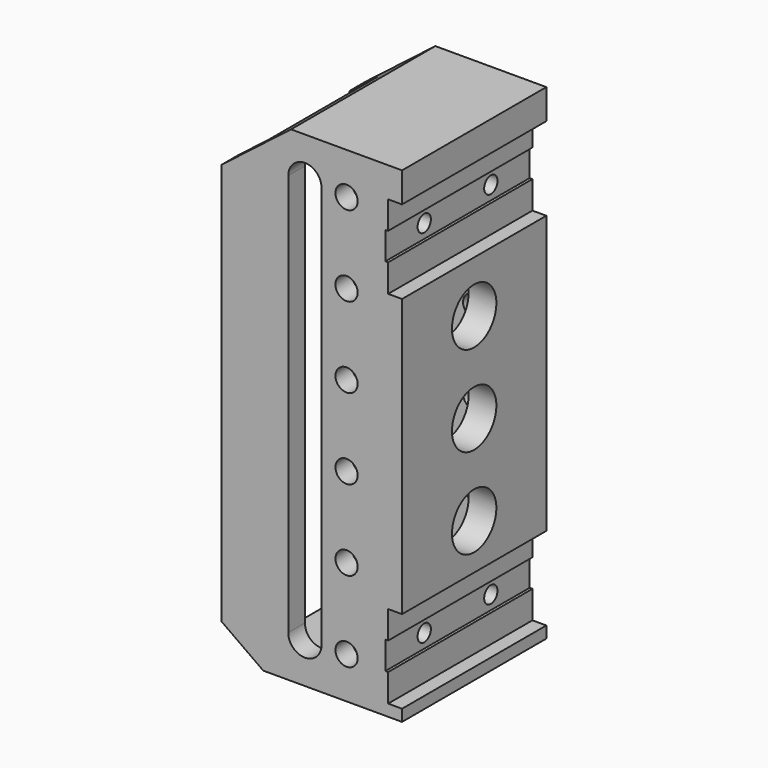
from build123d import *

# Parameters (mm, degrees)
PAD_DEPTH              = 65
POCKET_DEPTH           = 65.001
SKETCH002_R            = 4
POCKET001_DEPTH        = 65.001
LINEARPATTERN_COUNT    = 6
LINEARPATTERN_PITCH    = 29
SKETCH003_W            = 160
SKETCH003_H            = 50
POCKET002_DEPTH        = 55
SKETCH004_W            = 30
SKETCH004_H            = 65
POCKET003_DEPTH        = 5
SKETCH005_R            = 3
POCKET004_DEPTH        = 12.172573
SKETCH035_R            = 10
POCKET023_DEPTH        = 65.001
LINEARPATTERN001_COUNT = 3
LINEARPATTERN001_PITCH = 32.5
SKETCH076_W            = 10
SKETCH076_H            = 65
POCKET047_DEPTH        = 1


with BuildPart() as part:
    # Sketch → Pad (new body)
    with BuildSketch(Plane.XZ):
        Polygon((-2.003095, 92.602939), (37.996905, 92.602939), (37.996905, -82.397061), (-12.003095, -82.397061), (-27.003095, -71.740207), (-27.003095, 73.259793), align=None)
    extrude(amount=PAD_DEPTH)

    # Sketch001 (on Face8 of Pad) → Pocket (cut, through all)
    with BuildSketch(Plane.XZ.offset(65)):
        with BuildLine():
            ThreePointArc((8.996905, 77.602939), (2.996905, 83.602939), (-3.003095, 77.602939))
            Line((-3.003095, 77.602939), (-3.003095, -67.397061))
            ThreePointArc((-3.003095, -67.397061), (2.996905, -73.397061), (8.996905, -67.397061))
            Line((8.996905, 77.602939), (8.996905, -67.397061))
        make_face()
    extrude(amount=-POCKET_DEPTH, mode=Mode.SUBTRACT)

    # Sketch002 (on Face5 of Pocket) → Pocket001 (cut, through all)
    with BuildSketch(Plane.XZ.offset(65)):
        with Locations((17.996905, 77.602939)):
            Circle(SKETCH002_R)
    pocket001 = extrude(amount=-POCKET001_DEPTH, mode=Mode.SUBTRACT)

    # LinearPattern: Pocket001 ×6
    with Locations(*[(0, 0, -i * LINEARPATTERN_PITCH) for i in range(1, LINEARPATTERN_COUNT)]):
        add(pocket001, mode=Mode.SUBTRACT)

    # Sketch003 (on Face1 of LinearPattern) → Pocket002 (cut)
    with BuildSketch(Plane(origin=(-27.003095, 0, 0), x_dir=(0, 0, -1), z_dir=(-1, 0, 0))):
        with Locations((-1.789118, 32.5)):
            Rectangle(SKETCH003_W, SKETCH003_H)
    extrude(amount=-POCKET002_DEPTH, mode=Mode.SUBTRACT)

    # Sketch004 (on Face8 of Pocket002) → Pocket003 (cut)
    with BuildSketch(Plane(origin=(37.996905, 0, 0), x_dir=(0, 0, 1), z_dir=(1, 0, 0))):
        with Locations((-63.210882, 32.5)):
            Rectangle(SKETCH004_W, SKETCH004_H)
        with Locations((66.789118, 32.5)):
            Rectangle(SKETCH004_W, SKETCH004_H)
    extrude(amount=-POCKET003_DEPTH, mode=Mode.SUBTRACT)

    # Sketch005 → Pocket004 (cut, through all)
    with BuildSketch(Plane(origin=(25.825332, 0, 0), x_dir=(0, 0, 1), z_dir=(1, 0, 0))):
        with Locations((-63.210882, 17.5)):
            Circle(SKETCH005_R)
        with Locations((-63.210882, 47.5)):
            Circle(SKETCH005_R)
        with Locations((66.789118, 47.5)):
            Circle(SKETCH005_R)
        with Locations((66.789118, 17.5)):
            Circle(SKETCH005_R)
    extrude(amount=POCKET004_DEPTH, mode=Mode.SUBTRACT)

    # Sketch035 → Pocket023 (cut, through all)
    with BuildSketch(Plane(origin=(37.996905, 0, 0), x_dir=(0, 0, 1), z_dir=(1, 0, 0))):
        with Locations((-31.789585, 32.5)):
            Circle(SKETCH035_R)
    pocket023 = extrude(amount=-POCKET023_DEPTH, mode=Mode.SUBTRACT)

    # LinearPattern001: Pocket023 ×3
    with Locations(*[(0, 0, i * LINEARPATTERN001_PITCH) for i in range(1, LINEARPATTERN001_COUNT)]):
        add(pocket023, mode=Mode.SUBTRACT)

    # Sketch076 (on Face13 of Pocket004) → Pocket047 (cut)
    with BuildSketch(Plane(origin=(32.996905, 0, 0), x_dir=(0, 0, 1), z_dir=(1, 0, 0))):
        with Locations((-63.210882, 32.5)):
            Rectangle(SKETCH076_W, SKETCH076_H)
        with Locations((66.789118, 32.5)):
            Rectangle(SKETCH076_W, SKETCH076_H)
    extrude(amount=-POCKET047_DEPTH, mode=Mode.SUBTRACT)


solid = part.part
